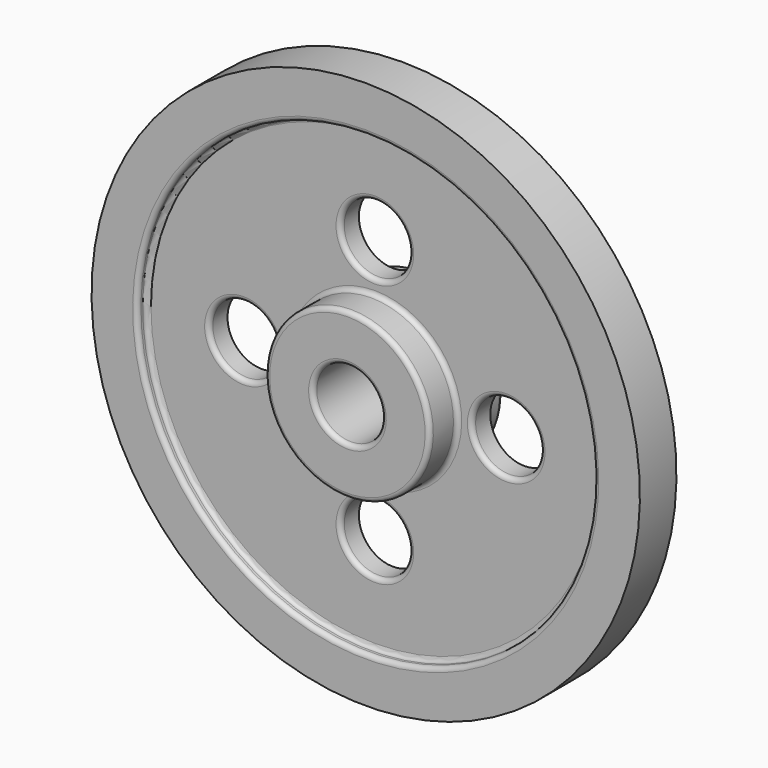
from build123d import *

# Parameters (mm, degrees)
F2_R     = 19.05
F3_DEPTH = 25.4
F4_R     = 2.54
F5_SIZE  = 1.5875
F6_R     = 2.54


with BuildPart() as f1:
    # F0 (on Right) → F1 (revolve)
    with BuildSketch(Plane.YZ):
        Polygon((25.399999693, 26.67), (6.35, 26.67), (6.35, 107.95), (12.7, 107.95), (12.7, 133.35), (0, 133.35), (-12.7, 133.35), (-12.7, 107.95), (-6.35, 107.95), (-6.35, 26.67), (-25.399999693, 26.67), (-25.399999693, 0), (25.399999693, 0), align=None)
    revolve(axis=Axis((0, 34.7472019494, -19.05), (0, 1, 0)))

    # F2 (on face) → F3 (cut)
    with BuildSketch(Plane.XZ.offset(6.35)):
        with BuildLine():
            ThreePointArc((92.075, -19.05), (73.025, 0), (53.975, -19.05))
            ThreePointArc((53.975, -19.05), (73.025, -38.1), (92.075, -19.05))
        make_face()
        with Locations((-73.025, -19.05)):
            Circle(F2_R)
        with Locations((0, -92.075)):
            Circle(F2_R)
        with BuildLine():
            ThreePointArc((19.05, 53.975), (-13.4703841816, 67.4453841816), (0, 34.925))
            ThreePointArc((0, 34.925), (13.4703841816, 40.5046158184), (19.05, 53.975))
        make_face()
    extrude(amount=-F3_DEPTH, mode=Mode.SUBTRACT)

    # F4
    f4_edges = [f1.edges().sort_by_distance(p)[0] for p in [
        (0, -12.7, -146.05),
        (0, -6.35, -146.05),
        (0, -25.4, -64.77),
        (0, -25.4, -38.1),
        (-92.075, -6.35, -19.05),
        (-19.05, -6.35, -92.075),
        (0, -6.35, -64.77),
        (0, -6.35, 73.025),
        (53.975, -6.35, -19.05),
    ]]
    fillet(f4_edges, radius=F4_R)

    # F5
    f5_edges = [f1.edges().sort_by_distance(p)[0] for p in [
        (0, -25.4, -40.64),
        (0, 25.4, -38.1),
    ]]
    chamfer(f5_edges, length=F5_SIZE)

    # F6
    f6_edges = [f1.edges().sort_by_distance(p)[0] for p in [
        (0, 6.35, -146.05),
        (0, 12.7, -146.05),
        (0, 25.4, -64.77),
        (0, 6.35, -64.77),
    ]]
    fillet(f6_edges, radius=F6_R)


solid = f1.part
